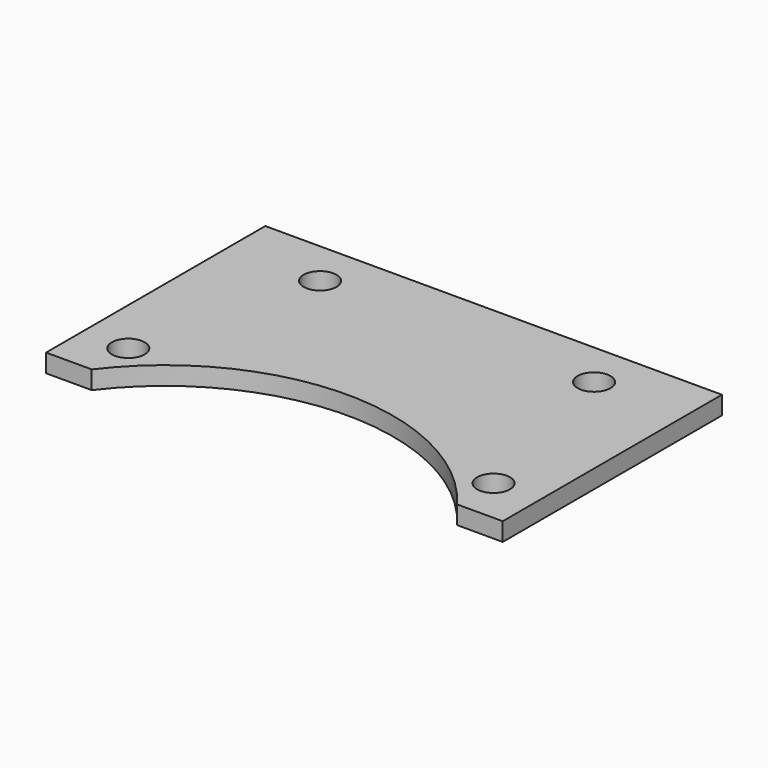
from build123d import *

# Parameters (mm, degrees)
SKETCH_R  = 1.8
PAD_DEPTH = 2


with BuildPart() as part:
    # Sketch → Pad (new body)
    with BuildSketch(Plane.XY):
        with BuildLine():
            Line((5, 0), (0, 0))
            Line((0, 0), (0, 30))
            Line((0, 30), (50, 30))
            Line((50, 30), (50, 0))
            Line((50, 0), (45, 0))
            ThreePointArc((45, 0), (25, 10), (5, 0))
        make_face()
        with Locations((5, 5)):
            Circle(SKETCH_R, mode=Mode.SUBTRACT)
        with Locations((45, 5)):
            Circle(SKETCH_R, mode=Mode.SUBTRACT)
        with Locations((40, 25)):
            Circle(SKETCH_R, mode=Mode.SUBTRACT)
        with Locations((10, 25)):
            Circle(SKETCH_R, mode=Mode.SUBTRACT)
    extrude(amount=PAD_DEPTH)


solid = part.part
